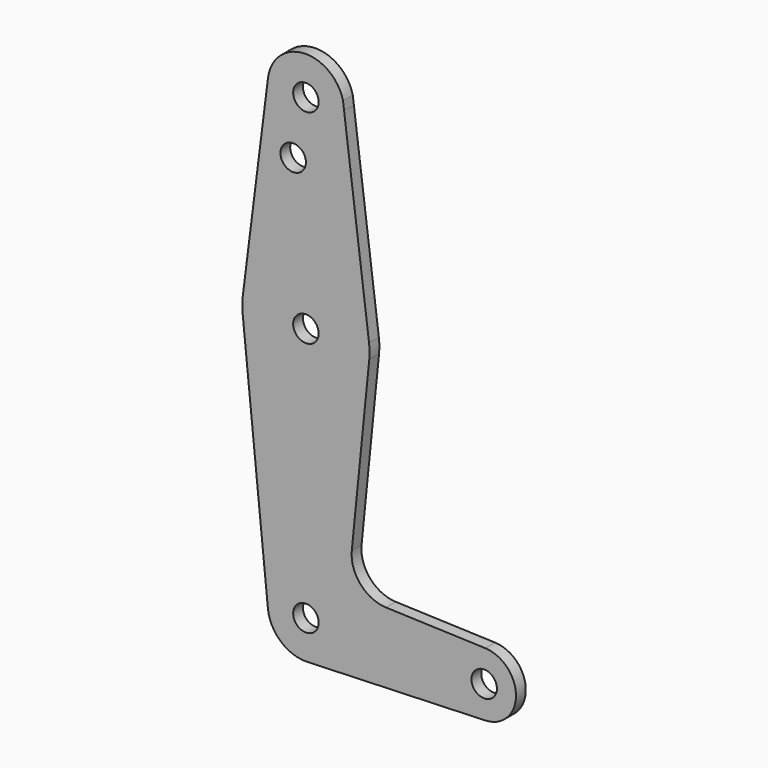
from build123d import *

# Parameters (mm, degrees)
F0_R     = 3.175
F1_DEPTH = 3.048


with BuildPart() as f1:
    # F0 (on Front) → F1 (new body)
    with BuildSketch(Plane.XZ):
        with BuildLine():
            Line((-15.795426, 61.9125), (-9.477255, -0.9525))
            ThreePointArc((-9.477255, -0.9525), (-6.389564, -7.063929), (0, -9.525))
            Line((0, -9.525), (0.677344, -9.500886))
            Line((0.677344, -9.500886), (44.732405, -7.932475))
            ThreePointArc((44.732405, -7.932475), (52.3875, -0.000539), (44.733482, 7.932436))
            Line((44.733482, 7.932436), (19.969365, 8.817434))
            ThreePointArc((19.969365, 8.817434), (13.588407, 11.856871), (11.441427, 18.590762))
            Line((11.441427, 18.590762), (15.795426, 61.9125))
            ThreePointArc((15.795426, 61.9125), (15.873617, 63.70953), (15.74802, 65.503869))
            Line((15.74802, 65.503869), (9.524308, 114.414813))
            Line((9.524308, 114.414813), (9.24955, 116.574081))
            ThreePointArc((9.24955, 116.574081), (-0.550948, 123.809053), (-9.450293, 115.490625))
            Line((-9.450293, 115.490625), (-15.750488, 65.484375))
            ThreePointArc((-15.750488, 65.484375), (-15.873744, 63.699705), (-15.795426, 61.9125))
        make_face()
        Circle(F0_R, mode=Mode.SUBTRACT)
        with Locations((44.45, 0)):
            Circle(F0_R, mode=Mode.SUBTRACT)
        with Locations((0, 63.5)):
            Circle(F0_R, mode=Mode.SUBTRACT)
        with Locations((-3.175, 100.0125)):
            Circle(F0_R, mode=Mode.SUBTRACT)
        with Locations((0, 114.3)):
            Circle(F0_R, mode=Mode.SUBTRACT)
    extrude(amount=F1_DEPTH)


solid = f1.part
